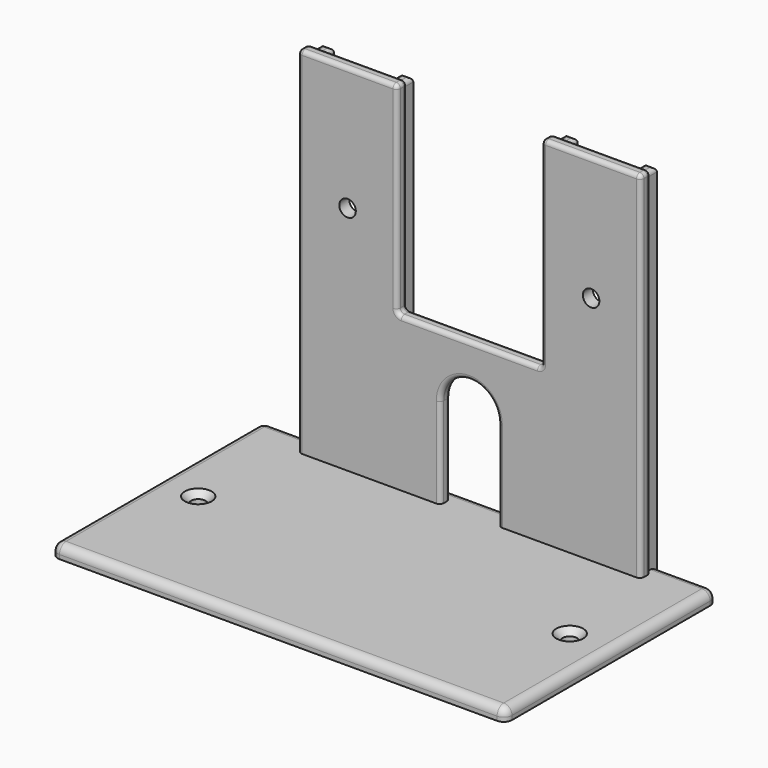
from build123d import *

# Parameters (mm, degrees)
SKETCH_W        = 110
SKETCH_H        = 64
SKETCH_R        = 1.75
PAD_DEPTH       = 3
CHAMFER_SIZE    = 1.5
FILLET_R        = 2
SKETCH001_W     = 83
SKETCH001_H     = 3
PAD001_DEPTH    = 86
FILLET001_R     = 1
SKETCH002_R     = 2
POCKET_DEPTH    = 5
POCKET001_DEPTH = 5
FILLET002_R     = 1
SKETCH004_W     = 35
SKETCH004_H     = 53
POCKET002_DEPTH = 5
FILLET003_R     = 1
SKETCH005_W     = 2.8
SKETCH005_H     = 87.98
PAD002_DEPTH    = 3.16
FILLET004_R     = 1


with BuildPart() as part:
    # Sketch → Pad (new body)
    with BuildSketch(Plane.XY):
        Rectangle(SKETCH_W, SKETCH_H)
        with Locations((-45, 0)):
            Circle(SKETCH_R, mode=Mode.SUBTRACT)
        with Locations((45, 0)):
            Circle(SKETCH_R, mode=Mode.SUBTRACT)
    extrude(amount=PAD_DEPTH)

    # Chamfer
    chamfer_edges = [part.edges().sort_by_distance(p)[0] for p in [
        (43.25, 0, 3),
        (-46.75, 0, 3),
    ]]
    chamfer(chamfer_edges, length=CHAMFER_SIZE)

    # Fillet
    fillet_edges = [part.edges().sort_by_distance(p)[0] for p in [
        (-55, 32, 1.5),
        (0, 32, 3),
        (55, 32, 1.5),
        (55, 0, 3),
        (0, -32, 3),
        (-55, 0, 3),
        (-55, -32, 1.5),
        (55, -32, 1.5),
    ]]
    fillet(fillet_edges, radius=FILLET_R)

    # Sketch001 (on Face22 of Fillet) → Pad001 (join)
    with BuildSketch(Plane.XY.offset(3)):
        with Locations((0, 27.34)):
            Rectangle(SKETCH001_W, SKETCH001_H)
    extrude(amount=PAD001_DEPTH)

    # Fillet001
    fillet001_edges = [part.edges().sort_by_distance(p)[0] for p in [
        (-41.5, 25.84, 46),
        (-41.5, 28.84, 46),
        (-41.5, 27.34, 89),
        (0, 28.84, 89),
        (0, 25.84, 89),
        (41.5, 25.84, 46),
        (41.5, 28.84, 46),
        (41.5, 27.34, 89),
    ]]
    fillet(fillet001_edges, radius=FILLET001_R)

    # Sketch002 (on Face6 of Fillet001) → Pocket (cut)
    with BuildSketch(Plane(origin=(0, 28.84, 0), x_dir=(-1, 0, 0), z_dir=(0, 1, 0))):
        with Locations((-29.5, 59)):
            Circle(SKETCH002_R)
        with Locations((29.5, 59)):
            Circle(SKETCH002_R)
    extrude(amount=-POCKET_DEPTH, mode=Mode.SUBTRACT)

    # Sketch003 (on Face5 of Pocket) → Pocket001 (cut)
    with BuildSketch(Plane.XZ.offset(-25.84)):
        with BuildLine():
            Line((7, 24.84), (7, 3))
            Line((7, 3), (-7, 3))
            Line((-7, 3), (-7, 24.84))
            ThreePointArc((7, 24.84), (0, 31.920457), (-7, 24.84))
        make_face()
    extrude(amount=-POCKET001_DEPTH, mode=Mode.SUBTRACT)

    # Fillet002
    fillet002_edges = [part.edges().sort_by_distance(p)[0] for p in [
        (0, 25.84, 31.920457),
        (-7, 25.84, 13.92),
        (7, 25.84, 13.92),
        (-7, 28.84, 13.92),
        (0, 28.84, 31.920457),
        (7, 28.84, 13.92),
    ]]
    fillet(fillet002_edges, radius=FILLET002_R)

    # Sketch004 (on Face7 of Fillet002) → Pocket002 (cut)
    with BuildSketch(Plane(origin=(0, 28.84, 0), x_dir=(-1, 0, 0), z_dir=(0, 1, 0))):
        with Locations((0, 66.71)):
            Rectangle(SKETCH004_W, SKETCH004_H)
    extrude(amount=-POCKET002_DEPTH, mode=Mode.SUBTRACT)

    # Fillet003
    fillet003_edges = [part.edges().sort_by_distance(p)[0] for p in [
        (0, 28.84, 40.21),
        (0, 25.84, 40.21),
        (-17.5, 27.34, 40.21),
        (-17.5, 28.84, 64.105),
        (-17.5, 25.84, 64.105),
        (17.5, 28.84, 64.105),
        (17.5, 28.547107, 88.707107),
        (17.5, 27.34, 89),
        (-17.5, 28.547107, 88.707107),
        (-17.5, 27.34, 89),
        (-17.5, 26.132893, 88.707107),
        (17.5, 27.34, 40.21),
        (17.5, 25.84, 64.105),
        (17.5, 26.132893, 88.707107),
    ]]
    fillet(fillet003_edges, radius=FILLET003_R)

    # Sketch005 (on Face25 of Fillet003) → Pad002 (join)
    with BuildSketch(Plane(origin=(0, 28.84, 0), x_dir=(-1, 0, 0), z_dir=(0, 1, 0))):
        with Locations((-39.1, 43.99)):
            Rectangle(SKETCH005_W, SKETCH005_H)
        with Locations((-19.91, 43.99)):
            Rectangle(SKETCH005_W, SKETCH005_H)
        with Locations((19.91, 43.99)):
            Rectangle(SKETCH005_W, SKETCH005_H)
        with Locations((39.09, 43.99)):
            Rectangle(SKETCH005_W, SKETCH005_H)
    extrude(amount=PAD002_DEPTH)

    # Fillet004
    fillet004_edges = [part.edges().sort_by_distance(p)[0] for p in [
        (40.5, 30.42, 87.98),
        (39.1, 32, 87.98),
        (37.7, 30.42, 87.98),
        (21.31, 30.42, 87.98),
        (19.91, 32, 87.98),
        (18.51, 30.42, 87.98),
        (-18.51, 30.42, 87.98),
        (-19.91, 32, 87.98),
        (-21.31, 30.42, 87.98),
        (-37.69, 30.42, 87.98),
        (-39.09, 32, 87.98),
        (-40.49, 30.42, 87.98),
    ]]
    fillet(fillet004_edges, radius=FILLET004_R)


solid = part.part
